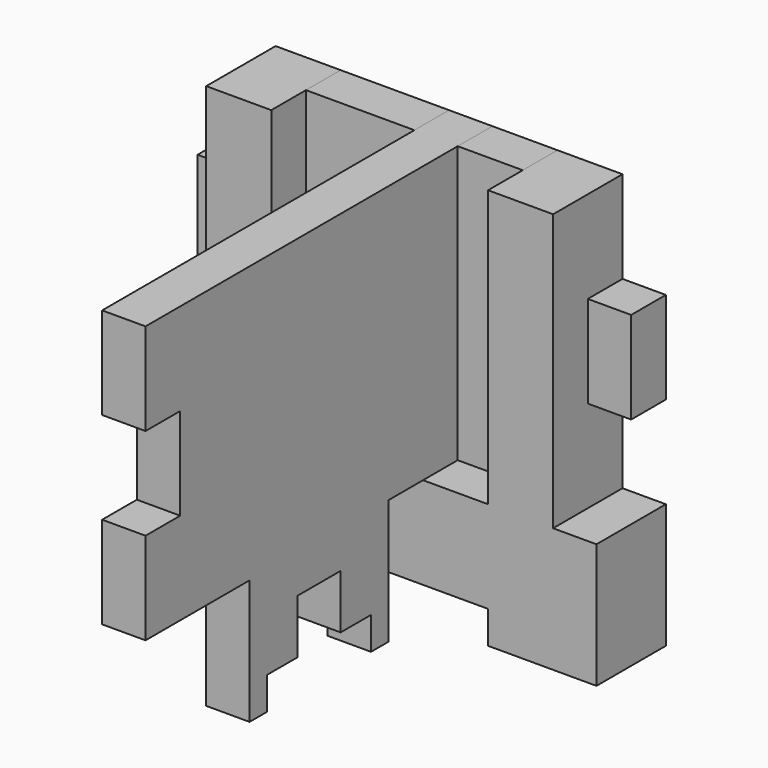
from build123d import *

# Parameters (mm, degrees)
PAD_DEPTH    = 4
PAD001_DEPTH = 4
PAD002_DEPTH = 8


with BuildPart() as frontwall:
    # Sketch → Pad (new body)
    with BuildSketch(Plane.XZ):
        Polygon((-16, 37), (16, 37), (16, 28.5), (20, 28.5), (20, 20), (16, 20), (16, 11.5), (20, 11.5), (20, 0), (10, 0), (10, 3), (-10, 3), (-10, 0), (-20, 0), (-20, 11.5), (-16, 11.5), (-16, 20), (-20, 20), (-20, 28.5), (-16, 28.5), align=None)
    extrude(amount=PAD_DEPTH)


with BuildPart() as sidewall:
    # Sketch001 → Pad001 (new body)
    with BuildSketch(Plane.YZ):
        Polygon((0, 37), (0, 28.5), (-4, 28.5), (-4, 20), (0, 20), (0, 11.5), (-12, 11.5), (-12, 0), (-14, 0), (-14, 3), (-17.5, 3), (-17.5, 8), (-22.5, 8), (-22.5, 3), (-26, 3), (-26, 0), (-28, 0), (-28, 11.5), (-40, 11.5), (-40, 20), (-36, 20), (-36, 28.5), (-40, 28.5), (-40, 37), align=None)
    extrude(amount=PAD001_DEPTH)


with BuildPart() as support:
    # Sketch002 → Pad002 (new body)
    with BuildSketch(Plane.XZ):
        Polygon((-20, 11.5), (-20, 0), (-10, 0), (-10, 3), (10, 3), (10, 0), (20, 0), (20, 11.5), (16, 11.5), (16, 37), (10, 37), (10, 11.5), (-10, 11.5), (-10, 37), (-16, 37), (-16, 11.5), align=None)
    extrude(amount=PAD002_DEPTH)


solid = Compound([frontwall.part, sidewall.part, support.part])
